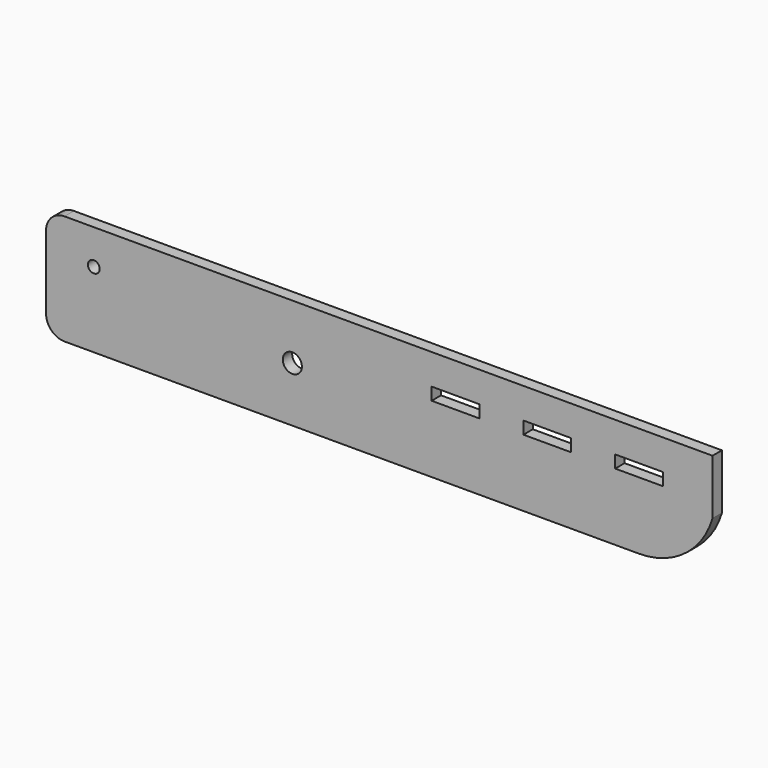
from build123d import *

# Parameters (mm, degrees)
F0_R     = 1.6
F0_R_2   = 2.6
F0_W     = 13
F0_H     = 3.4
F1_DEPTH = 3.2
F2_R     = 5


with BuildPart() as f1:
    # F0 (on Front) → F1 (new body)
    with BuildSketch(Plane.XZ):
        with BuildLine():
            Line((-65, 15), (-116.5, 15))
            Line((-116.5, 15), (-116.5, -15))
            Line((-116.5, -15), (-65, -15))
            Line((-65, -15), (45, -15))
            ThreePointArc((45, -15), (57.5, -10.833333), (65, 0))
            Line((65, 0), (65, 15))
            Line((65, 15), (-65, 15))
        make_face()
        with Locations((-103.5, 5.5)):
            Circle(F0_R, mode=Mode.SUBTRACT)
        with Locations((-49.43341, 0)):
            Circle(F0_R_2, mode=Mode.SUBTRACT)
        with Locations((-5, 5)):
            Rectangle(F0_W, F0_H, mode=Mode.SUBTRACT)
        with Locations((20, 5)):
            Rectangle(F0_W, F0_H, mode=Mode.SUBTRACT)
        with Locations((45, 5)):
            Rectangle(F0_W, F0_H, mode=Mode.SUBTRACT)
    extrude(amount=F1_DEPTH)

    # F2
    f2_edges = [f1.edges().sort_by_distance(p)[0] for p in [
        (-116.5, -1.6, 15),
        (-116.5, -1.6, -15),
    ]]
    fillet(f2_edges, radius=F2_R)


solid = f1.part
